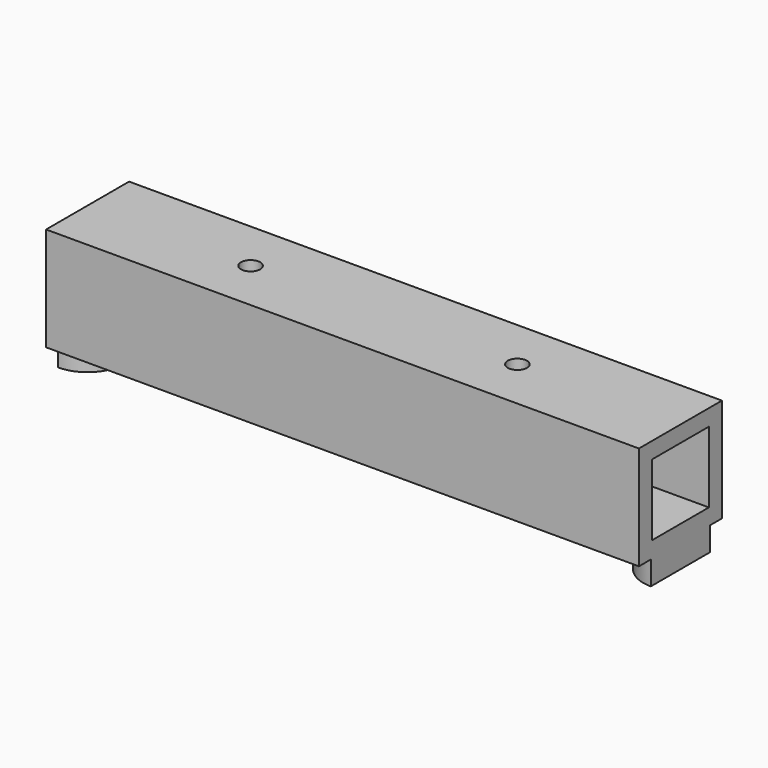
from build123d import *

# Parameters (mm, degrees)
F0_W     = 200
F0_H     = 35
F1_DEPTH = 35
F2_W     = 24
F2_H     = 24
F3_DEPTH = 25.5
F4_W     = 24
F4_H     = 24
F5_DEPTH = 25.5
F7_D     = 6.5
F7_DEPTH = 35
F7_TIP   = 1.9527970118
F9_DEPTH = 8


with BuildPart() as f1:
    # F0 (on Top) → F1 (new body)
    with BuildSketch(Plane.XY):
        Rectangle(F0_W, F0_H)
    extrude(amount=F1_DEPTH)

    # F2 (on face) → F3 (cut)
    with BuildSketch(Plane.YZ.offset(100)):
        with Locations((0, 17.5)):
            Rectangle(F2_W, F2_H)
    extrude(amount=-F3_DEPTH, mode=Mode.SUBTRACT)

    # F4 (on face) → F5 (cut)
    with BuildSketch(Plane(origin=(-100, 0, 0), x_dir=(0, -1, 0), z_dir=(-1, 0, 0))):
        with Locations((0, 17.5)):
            Rectangle(F4_W, F4_H)
    extrude(amount=-F5_DEPTH, mode=Mode.SUBTRACT)

    # F7
    with Locations(Plane(origin=(0, 0, 0), x_dir=(1, 0, 0), z_dir=(0, 0, -1))):
        with Locations((-45, 0), (45, 0)):
            Hole(F7_D / 2, depth=F7_DEPTH)
            with Locations((0, 0, -(F7_DEPTH + F7_TIP / 2))):  # 118° drill point
                Cone(0, F7_D / 2, F7_TIP, mode=Mode.SUBTRACT)

    # F8 (on face) → F9 (join)
    with BuildSketch(Plane(origin=(0, 0, 0), x_dir=(1, 0, 0), z_dir=(0, 0, -1))):
        with BuildLine():
            Line((100, -12.5), (100, 12.5))
            ThreePointArc((100, 12.5), (87.5, 0), (100, -12.5))
        make_face()
        with BuildLine():
            ThreePointArc((-87.5, 0), (-91.1611652352, 8.8388347648), (-100, 12.5))
            Line((-100, 12.5), (-100, -12.5))
            ThreePointArc((-100, -12.5), (-91.1611652352, -8.8388347648), (-87.5, 0))
        make_face()
    extrude(amount=F9_DEPTH)


solid = f1.part
